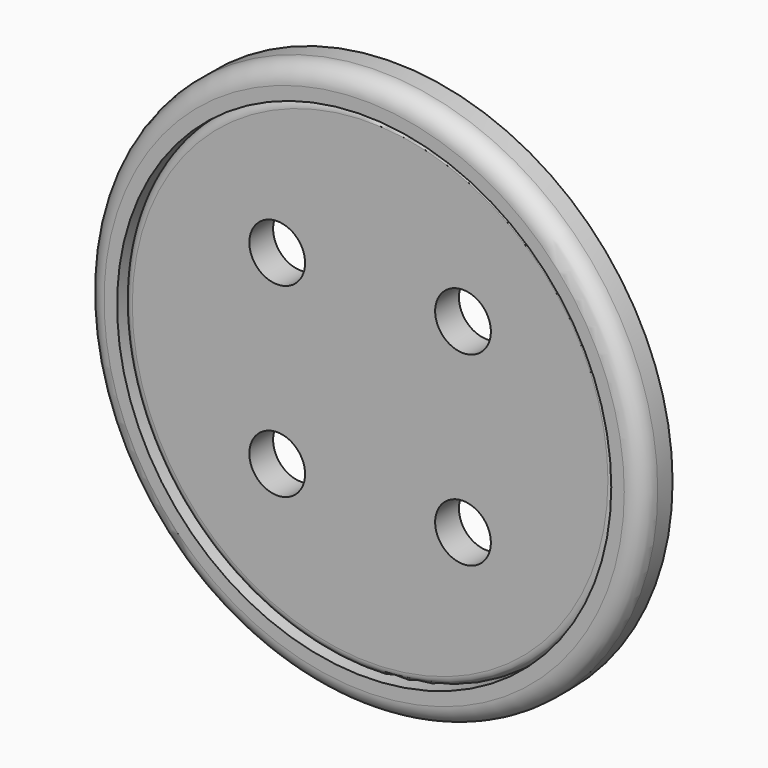
from build123d import *

# Parameters (mm, degrees)
F0_R     = 16.891
F0_R_2   = 1.905
F1_DEPTH = 2.032
F2_R     = 0.635
F0_R_3   = 19.05
F3_DEPTH = 2.54
F4_R     = 1.27


with BuildPart() as f1:
    # F0 (on Front) → F1 (new body)
    with BuildSketch(Plane.XZ):
        Circle(F0_R)
        with Locations((-6.35, -6.35)):
            Circle(F0_R_2, mode=Mode.SUBTRACT)
        with Locations((6.35, -6.35)):
            Circle(F0_R_2, mode=Mode.SUBTRACT)
        with Locations((-6.35, 6.35)):
            Circle(F0_R_2, mode=Mode.SUBTRACT)
        with Locations((6.35, 6.35)):
            Circle(F0_R_2, mode=Mode.SUBTRACT)
    extrude(amount=F1_DEPTH)

    # F2
    f2_edges = [f1.edges().sort_by_distance(p)[0] for p in [
        (-16.891, -2.032, 0),
        (-16.891, 0, 0),
    ]]
    fillet(f2_edges, radius=F2_R)

    # F0 (on Front) → F3 (join)
    with BuildSketch(Plane.XZ):
        Circle(F0_R_3)
        Circle(F0_R, mode=Mode.SUBTRACT)
    extrude(amount=F3_DEPTH)

    # F4
    f4_edges = [f1.edges().sort_by_distance(p)[0] for p in [
        (-19.05, -2.54, 0),
    ]]
    fillet(f4_edges, radius=F4_R)


solid = f1.part
